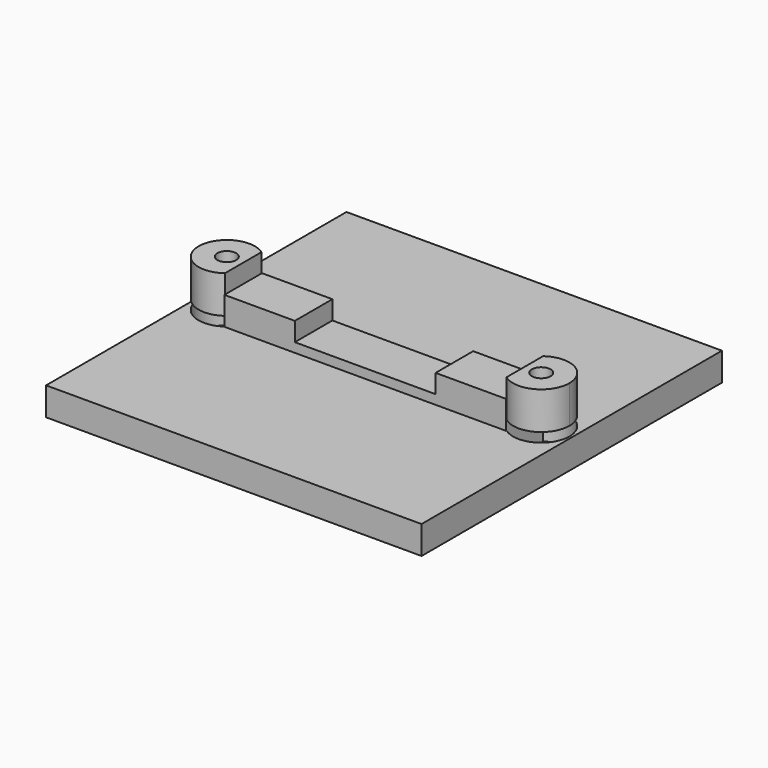
from build123d import *

# Parameters (mm, degrees)
F0_W     = 40
F0_H     = 40
F1_DEPTH = 3
F3_DEPTH = 3
F4_START = 1
F2_R     = 1
F4_DEPTH = 4
F5_DEPTH = 25
F6_W     = 15
F6_H     = 5
F7_DEPTH = 2


with BuildPart() as f1:
    # F0 (on Top) → F1 (new body)
    with BuildSketch(Plane.XY):
        Rectangle(F0_W, F0_H)
    extrude(amount=F1_DEPTH)

    # F2 (on face) → F3 (join)
    with BuildSketch(Plane.XY.offset(3)):
        with BuildLine():
            Line((15, 2.5), (-15, 2.5))
            Line((-15, 2.5), (-15, 2.4366985862))
            ThreePointArc((-15, 2.4366985862), (-14.080730437, 1.3693063938), (-13.75, 0))
            ThreePointArc((-13.75, 0), (-14.080730437, -1.3693063938), (-15, -2.4366985862))
            Line((-15, -2.4366985862), (-15, -2.5))
            Line((-15, -2.5), (15, -2.5))
            Line((15, -2.5), (15, -2.4366985862))
            ThreePointArc((15, -2.4366985862), (13.75, 0), (15, 2.4366985862))
            Line((15, 2.4366985862), (15, 2.5))
        make_face()
        with BuildLine():
            Line((-13.75, 0), (-15, 0))
            Line((-15, 0), (-15, -2.4366985862))
            ThreePointArc((-15, -2.4366985862), (-14.080730437, -1.3693063938), (-13.75, 0))
        make_face()
        with BuildLine():
            ThreePointArc((-13.75, 0), (-14.080730437, 1.3693063938), (-15, 2.4366985862))
            Line((-15, 2.4366985862), (-15, 0))
            Line((-15, 0), (-13.75, 0))
        make_face()
        with BuildLine():
            Line((15, -2.4366985862), (15, 2.4366985862))
            ThreePointArc((15, 2.4366985862), (13.75, 0), (15, -2.4366985862))
        make_face()
    extrude(amount=F3_DEPTH)

    # F2 (on face) → F5 (cut)
    with BuildSketch(Plane.XY.offset(3)):
        with BuildLine():
            Line((-15, 0), (-15, 2.4366985862))
            ThreePointArc((-15, 2.4366985862), (-19.75, 0), (-15, -2.4366985862))
            Line((-15, -2.4366985862), (-15, 0))
        make_face()
        with Locations((-16.75, 0)):
            Circle(F2_R, mode=Mode.SUBTRACT)
        with Locations((-16.75, 0)):
            Circle(F2_R)
        with BuildLine():
            ThreePointArc((19.75, 0), (18.1193063938, 2.669269563), (15, 2.4366985862))
            Line((15, 2.4366985862), (15, -2.4366985862))
            ThreePointArc((15, -2.4366985862), (18.1193063938, -2.669269563), (19.75, 0))
        make_face()
        with Locations((16.75, 0)):
            Circle(F2_R, mode=Mode.SUBTRACT)
        with Locations((16.75, 0)):
            Circle(F2_R)
    extrude(amount=-F5_DEPTH, mode=Mode.SUBTRACT)

    # F6 (on face) → F7 (cut)
    with BuildSketch(Plane.XY.offset(6)):
        Rectangle(F6_W, F6_H)
    extrude(amount=-F7_DEPTH, mode=Mode.SUBTRACT)


with BuildPart() as f4:
    # F2 (on face) → F4 (new body)
    with BuildSketch(Plane.XY.offset(3).offset(F4_START)):
        with BuildLine():
            Line((-15, 0), (-15, 2.4366985862))
            ThreePointArc((-15, 2.4366985862), (-19.75, 0), (-15, -2.4366985862))
            Line((-15, -2.4366985862), (-15, 0))
        make_face()
        with Locations((-16.75, 0)):
            Circle(F2_R, mode=Mode.SUBTRACT)
    extrude(amount=F4_DEPTH)


with BuildPart() as f4b:
    # F2 (on face) → F4, piece 2 (new body)
    with BuildSketch(Plane.XY.offset(3).offset(F4_START)):
        with BuildLine():
            ThreePointArc((19.75, 0), (18.1193063938, 2.669269563), (15, 2.4366985862))
            Line((15, 2.4366985862), (15, -2.4366985862))
            ThreePointArc((15, -2.4366985862), (18.1193063938, -2.669269563), (19.75, 0))
        make_face()
        with Locations((16.75, 0)):
            Circle(F2_R, mode=Mode.SUBTRACT)
    extrude(amount=F4_DEPTH)


solid = Compound([f1.part, f4.part, f4b.part])
